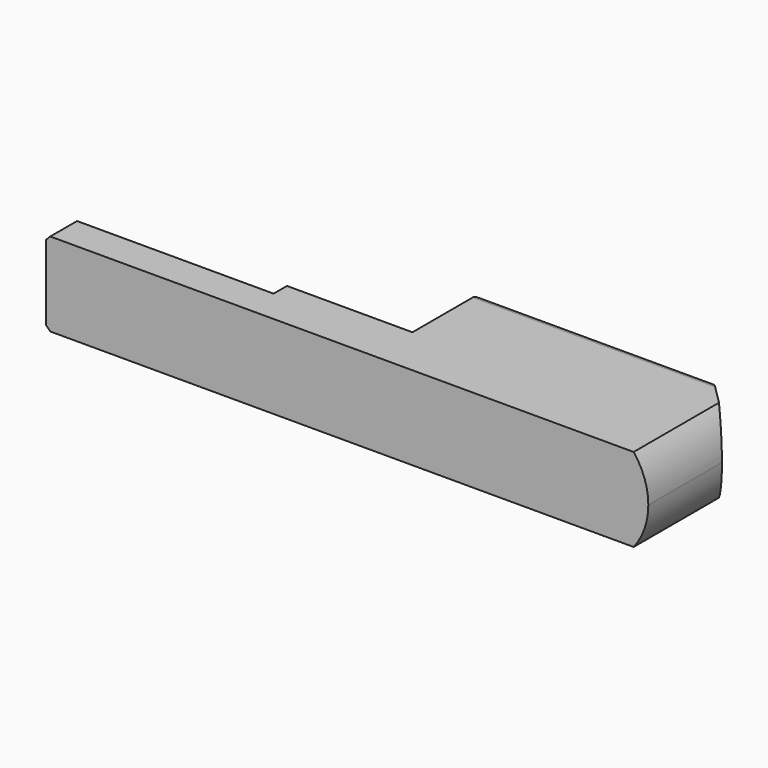
from build123d import *

# Parameters (mm, degrees)
F0_W      = 72
F0_H      = 16
F1_DEPTH  = 10
F2_SIZE   = 5
F4_DEPTH  = 10
F5_SIZE   = 0.5
F6_R      = 1
F8_DEPTH  = 25
F10_D     = 6
F10_DEPTH = 10
F10_TIP   = 1.8025818571


with BuildPart() as f1:
    # F0 (on Top) → F1 (new body)
    with BuildSketch(Plane.XY):
        Rectangle(F0_W, F0_H)
    extrude(amount=F1_DEPTH)

    # F2
    f2_edges = [f1.edges().sort_by_distance(p)[0] for p in [
        (36, 8, 5),
    ]]
    chamfer(f2_edges, length=F2_SIZE)

    # F3 (on face) → F4 (cut, through all)
    with BuildSketch(Plane.XY.offset(10)):
        Polygon((3, -2), (3, 8), (-36, 8), (-36, -4), (-12, -4), (-12, -2), align=None)
    extrude(amount=-F4_DEPTH, mode=Mode.SUBTRACT)

    # F5
    f5_edges = [f1.edges().sort_by_distance(p)[0] for p in [
        (-36, -4, 5),
        (-36, -6, 10),
        (-36, -6, 0),
    ]]
    chamfer(f5_edges, length=F5_SIZE)

    # F6
    f6_edges = [f1.edges().sort_by_distance(p)[0] for p in [
        (17, 8, 10),
        (17, 8, 0),
    ]]
    fillet(f6_edges, radius=F6_R)

    # F7 (on face) → F8 (cut)
    with BuildSketch(Plane(origin=(0, 8, 0), x_dir=(-1, 0, 0), z_dir=(0, 1, 0))):
        with BuildLine():
            ThreePointArc((-34.2449979984, 0), (-35.5485092564, 2.3504702292), (-36, 5))
            Line((-36, 5), (-36, 0))
            Line((-36, 0), (-34.2449979984, 0))
        make_face()
        with BuildLine():
            ThreePointArc((-36, 5), (-35.5485092564, 7.6495297708), (-34.2449979984, 10))
            Line((-34.2449979984, 10), (-36, 10))
            Line((-36, 10), (-36, 5))
        make_face()
    extrude(amount=-F8_DEPTH, mode=Mode.SUBTRACT)

    # F10
    with Locations(Plane(origin=(3, 0, 0), x_dir=(0, -1, 0), z_dir=(-1, 0, 0))):
        with Locations((-3, 5)):
            Hole(F10_D / 2, depth=F10_DEPTH)
            with Locations((0, 0, -(F10_DEPTH + F10_TIP / 2))):  # 118° drill point
                Cone(0, F10_D / 2, F10_TIP, mode=Mode.SUBTRACT)


solid = f1.part
